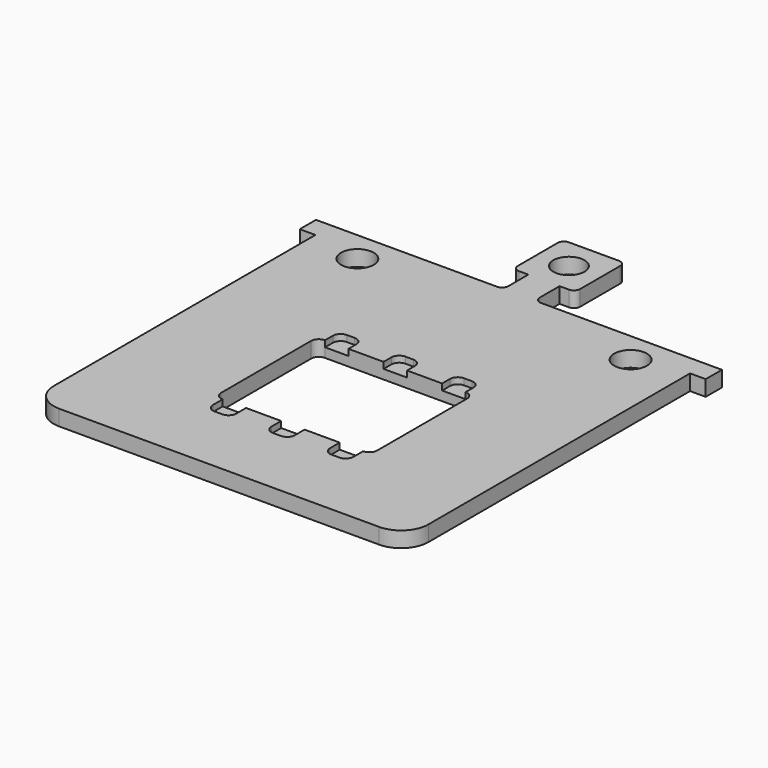
from build123d import *

# Parameters (mm, degrees)
F0_R     = 1.05
F0_R_2   = 1
F1_DEPTH = 0.6
F2_DEPTH = 1


with BuildPart() as f1:
    # F0 (on Top) → F1 (new body)
    with BuildSketch(Plane.XY):
        with BuildLine():
            Line((-10.25, -11.35), (10.25, -11.35))
            ThreePointArc((10.25, -11.35), (11.487437, -10.837437), (12, -9.6))
            Line((12, -9.6), (12, 11.35))
            Line((12, 11.35), (13, 11.35))
            Line((13, 11.35), (13, 12.65))
            Line((13, 12.65), (1.4, 12.65))
            ThreePointArc((1.4, 12.65), (1.117157, 12.767157), (1, 13.05))
            Line((1, 13.05), (1, 14.65))
            Line((1, 14.65), (1.6, 14.65))
            ThreePointArc((1.6, 14.65), (1.882843, 14.767157), (2, 15.05))
            Line((2, 15.05), (2, 18.25))
            ThreePointArc((2, 18.25), (1.882843, 18.532843), (1.6, 18.65))
            Line((1.6, 18.65), (-1.6, 18.65))
            ThreePointArc((-1.6, 18.65), (-1.882843, 18.532843), (-2, 18.25))
            Line((-2, 18.25), (-2, 15.05))
            ThreePointArc((-2, 15.05), (-1.882843, 14.767157), (-1.6, 14.65))
            Line((-1.6, 14.65), (-1, 14.65))
            Line((-1, 14.65), (-1, 13.05))
            ThreePointArc((-1, 13.05), (-1.117157, 12.767157), (-1.4, 12.65))
            Line((-1.4, 12.65), (-13, 12.65))
            Line((-13, 12.65), (-13, 11.35))
            Line((-13, 11.35), (-12, 11.35))
            Line((-12, 11.35), (-12, -9.6))
            ThreePointArc((-12, -9.6), (-11.487437, -10.837437), (-10.25, -11.35))
        make_face()
        with BuildLine():
            ThreePointArc((-5, 2.25), (-4.853553, 2.603553), (-4.5, 2.75))
            Line((-4.5, 2.75), (-4.5, 3.374709))
            ThreePointArc((-4.5, 3.374709), (-4.353553, 3.728262), (-4, 3.874709))
            Line((-4, 3.874709), (-3.5, 3.874709))
            ThreePointArc((-3.5, 3.874709), (-3.146447, 3.728262), (-3, 3.374709))
            Line((-3, 3.374709), (-3, 2.75))
            Line((-3, 2.75), (-0.75, 2.75))
            Line((-0.75, 2.75), (-0.75, 3.374709))
            ThreePointArc((-0.75, 3.374709), (-0.603553, 3.728262), (-0.25, 3.874709))
            Line((-0.25, 3.874709), (0.25, 3.874709))
            ThreePointArc((0.25, 3.874709), (0.603553, 3.728262), (0.75, 3.374709))
            Line((0.75, 3.374709), (0.75, 2.75))
            Line((0.75, 2.75), (3, 2.75))
            Line((3, 2.75), (3, 3.374709))
            ThreePointArc((3, 3.374709), (3.146447, 3.728262), (3.5, 3.874709))
            Line((3.5, 3.874709), (4, 3.874709))
            ThreePointArc((4, 3.874709), (4.353553, 3.728262), (4.5, 3.374709))
            Line((4.5, 3.374709), (4.5, 2.75))
            ThreePointArc((4.5, 2.75), (4.853553, 2.603553), (5, 2.25))
            Line((5, 2.25), (5, -4.95))
            ThreePointArc((5, -4.95), (4.853553, -5.303553), (4.5, -5.45))
            Line((4.5, -5.45), (4.5, -6.225291))
            ThreePointArc((4.5, -6.225291), (4.353553, -6.578845), (4, -6.725291))
            Line((4, -6.725291), (3.5, -6.725291))
            ThreePointArc((3.5, -6.725291), (3.146447, -6.578845), (3, -6.225291))
            Line((3, -6.225291), (3, -5.45))
            Line((3, -5.45), (0.75, -5.45))
            Line((0.75, -5.45), (0.75, -6.225291))
            ThreePointArc((0.75, -6.225291), (0.603553, -6.578845), (0.25, -6.725291))
            Line((0.25, -6.725291), (-0.25, -6.725291))
            ThreePointArc((-0.25, -6.725291), (-0.603553, -6.578845), (-0.75, -6.225291))
            Line((-0.75, -6.225291), (-0.75, -5.45))
            Line((-0.75, -5.45), (-3, -5.45))
            Line((-3, -5.45), (-3, -6.225291))
            ThreePointArc((-3, -6.225291), (-3.146447, -6.578845), (-3.5, -6.725291))
            Line((-3.5, -6.725291), (-4, -6.725291))
            ThreePointArc((-4, -6.725291), (-4.353553, -6.578845), (-4.5, -6.225291))
            Line((-4.5, -6.225291), (-4.5, -5.45))
            ThreePointArc((-4.5, -5.45), (-4.853553, -5.303553), (-5, -4.95))
            Line((-5, -4.95), (-5, 2.25))
        make_face(mode=Mode.SUBTRACT)
        with Locations((-8.75, 10.65)):
            Circle(F0_R, mode=Mode.SUBTRACT)
        with Locations((8.75, 10.65)):
            Circle(F0_R, mode=Mode.SUBTRACT)
        with Locations((0, 16.65)):
            Circle(F0_R_2, mode=Mode.SUBTRACT)
        with BuildLine():
            Line((-4.5, 3.374709), (-4.5, 2.75))
            Line((-4.5, 2.75), (-3, 2.75))
            Line((-3, 2.75), (-3, 3.374709))
            ThreePointArc((-3, 3.374709), (-3.146447, 3.728262), (-3.5, 3.874709))
            Line((-3.5, 3.874709), (-4, 3.874709))
            ThreePointArc((-4, 3.874709), (-4.353553, 3.728262), (-4.5, 3.374709))
        make_face()
        with BuildLine():
            Line((-0.75, 3.374709), (-0.75, 2.75))
            Line((-0.75, 2.75), (0.75, 2.75))
            Line((0.75, 2.75), (0.75, 3.374709))
            ThreePointArc((0.75, 3.374709), (0.603553, 3.728262), (0.25, 3.874709))
            Line((0.25, 3.874709), (-0.25, 3.874709))
            ThreePointArc((-0.25, 3.874709), (-0.603553, 3.728262), (-0.75, 3.374709))
        make_face()
        with BuildLine():
            Line((3, 3.374709), (3, 2.75))
            Line((3, 2.75), (4.5, 2.75))
            Line((4.5, 2.75), (4.5, 3.374709))
            ThreePointArc((4.5, 3.374709), (4.353553, 3.728262), (4, 3.874709))
            Line((4, 3.874709), (3.5, 3.874709))
            ThreePointArc((3.5, 3.874709), (3.146447, 3.728262), (3, 3.374709))
        make_face()
        with BuildLine():
            Line((4.5, -5.45), (3, -5.45))
            Line((3, -5.45), (3, -6.225291))
            ThreePointArc((3, -6.225291), (3.146447, -6.578845), (3.5, -6.725291))
            Line((3.5, -6.725291), (4, -6.725291))
            ThreePointArc((4, -6.725291), (4.353553, -6.578845), (4.5, -6.225291))
            Line((4.5, -6.225291), (4.5, -5.45))
        make_face()
        with BuildLine():
            Line((0.75, -5.45), (-0.75, -5.45))
            Line((-0.75, -5.45), (-0.75, -6.225291))
            ThreePointArc((-0.75, -6.225291), (-0.603553, -6.578845), (-0.25, -6.725291))
            Line((-0.25, -6.725291), (0.25, -6.725291))
            ThreePointArc((0.25, -6.725291), (0.603553, -6.578845), (0.75, -6.225291))
            Line((0.75, -6.225291), (0.75, -5.45))
        make_face()
        with BuildLine():
            Line((-3, -5.45), (-4.5, -5.45))
            Line((-4.5, -5.45), (-4.5, -6.225291))
            ThreePointArc((-4.5, -6.225291), (-4.353553, -6.578845), (-4, -6.725291))
            Line((-4, -6.725291), (-3.5, -6.725291))
            ThreePointArc((-3.5, -6.725291), (-3.146447, -6.578845), (-3, -6.225291))
            Line((-3, -6.225291), (-3, -5.45))
        make_face()
    extrude(amount=F1_DEPTH)

    # F0 (on Top) → F2 (join)
    with BuildSketch(Plane.XY):
        with BuildLine():
            Line((-10.25, -11.35), (10.25, -11.35))
            ThreePointArc((10.25, -11.35), (11.487437, -10.837437), (12, -9.6))
            Line((12, -9.6), (12, 11.35))
            Line((12, 11.35), (13, 11.35))
            Line((13, 11.35), (13, 12.65))
            Line((13, 12.65), (1.4, 12.65))
            ThreePointArc((1.4, 12.65), (1.117157, 12.767157), (1, 13.05))
            Line((1, 13.05), (1, 14.65))
            Line((1, 14.65), (1.6, 14.65))
            ThreePointArc((1.6, 14.65), (1.882843, 14.767157), (2, 15.05))
            Line((2, 15.05), (2, 18.25))
            ThreePointArc((2, 18.25), (1.882843, 18.532843), (1.6, 18.65))
            Line((1.6, 18.65), (-1.6, 18.65))
            ThreePointArc((-1.6, 18.65), (-1.882843, 18.532843), (-2, 18.25))
            Line((-2, 18.25), (-2, 15.05))
            ThreePointArc((-2, 15.05), (-1.882843, 14.767157), (-1.6, 14.65))
            Line((-1.6, 14.65), (-1, 14.65))
            Line((-1, 14.65), (-1, 13.05))
            ThreePointArc((-1, 13.05), (-1.117157, 12.767157), (-1.4, 12.65))
            Line((-1.4, 12.65), (-13, 12.65))
            Line((-13, 12.65), (-13, 11.35))
            Line((-13, 11.35), (-12, 11.35))
            Line((-12, 11.35), (-12, -9.6))
            ThreePointArc((-12, -9.6), (-11.487437, -10.837437), (-10.25, -11.35))
        make_face()
        with BuildLine():
            ThreePointArc((-5, 2.25), (-4.853553, 2.603553), (-4.5, 2.75))
            Line((-4.5, 2.75), (-4.5, 3.374709))
            ThreePointArc((-4.5, 3.374709), (-4.353553, 3.728262), (-4, 3.874709))
            Line((-4, 3.874709), (-3.5, 3.874709))
            ThreePointArc((-3.5, 3.874709), (-3.146447, 3.728262), (-3, 3.374709))
            Line((-3, 3.374709), (-3, 2.75))
            Line((-3, 2.75), (-0.75, 2.75))
            Line((-0.75, 2.75), (-0.75, 3.374709))
            ThreePointArc((-0.75, 3.374709), (-0.603553, 3.728262), (-0.25, 3.874709))
            Line((-0.25, 3.874709), (0.25, 3.874709))
            ThreePointArc((0.25, 3.874709), (0.603553, 3.728262), (0.75, 3.374709))
            Line((0.75, 3.374709), (0.75, 2.75))
            Line((0.75, 2.75), (3, 2.75))
            Line((3, 2.75), (3, 3.374709))
            ThreePointArc((3, 3.374709), (3.146447, 3.728262), (3.5, 3.874709))
            Line((3.5, 3.874709), (4, 3.874709))
            ThreePointArc((4, 3.874709), (4.353553, 3.728262), (4.5, 3.374709))
            Line((4.5, 3.374709), (4.5, 2.75))
            ThreePointArc((4.5, 2.75), (4.853553, 2.603553), (5, 2.25))
            Line((5, 2.25), (5, -4.95))
            ThreePointArc((5, -4.95), (4.853553, -5.303553), (4.5, -5.45))
            Line((4.5, -5.45), (4.5, -6.225291))
            ThreePointArc((4.5, -6.225291), (4.353553, -6.578845), (4, -6.725291))
            Line((4, -6.725291), (3.5, -6.725291))
            ThreePointArc((3.5, -6.725291), (3.146447, -6.578845), (3, -6.225291))
            Line((3, -6.225291), (3, -5.45))
            Line((3, -5.45), (0.75, -5.45))
            Line((0.75, -5.45), (0.75, -6.225291))
            ThreePointArc((0.75, -6.225291), (0.603553, -6.578845), (0.25, -6.725291))
            Line((0.25, -6.725291), (-0.25, -6.725291))
            ThreePointArc((-0.25, -6.725291), (-0.603553, -6.578845), (-0.75, -6.225291))
            Line((-0.75, -6.225291), (-0.75, -5.45))
            Line((-0.75, -5.45), (-3, -5.45))
            Line((-3, -5.45), (-3, -6.225291))
            ThreePointArc((-3, -6.225291), (-3.146447, -6.578845), (-3.5, -6.725291))
            Line((-3.5, -6.725291), (-4, -6.725291))
            ThreePointArc((-4, -6.725291), (-4.353553, -6.578845), (-4.5, -6.225291))
            Line((-4.5, -6.225291), (-4.5, -5.45))
            ThreePointArc((-4.5, -5.45), (-4.853553, -5.303553), (-5, -4.95))
            Line((-5, -4.95), (-5, 2.25))
        make_face(mode=Mode.SUBTRACT)
        with Locations((-8.75, 10.65)):
            Circle(F0_R, mode=Mode.SUBTRACT)
        with Locations((8.75, 10.65)):
            Circle(F0_R, mode=Mode.SUBTRACT)
        with Locations((0, 16.65)):
            Circle(F0_R_2, mode=Mode.SUBTRACT)
    extrude(amount=F2_DEPTH)


solid = f1.part
